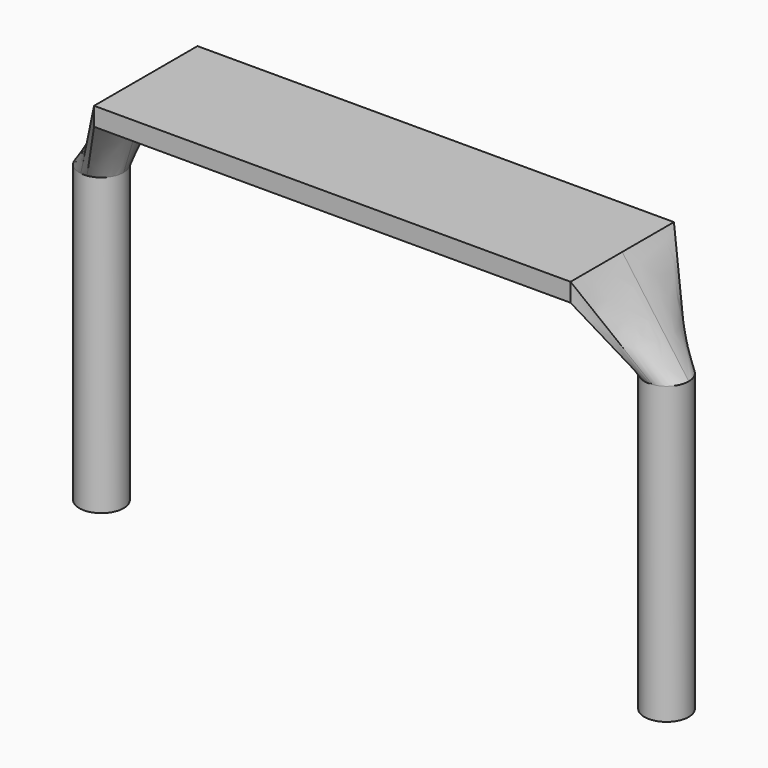
from build123d import *

# Parameters (mm, degrees)
SKETCH_R     = 0.6
PAD_DEPTH    = 8
SKETCH001_W  = 12.9
SKETCH001_H  = 3.5
PAD001_DEPTH = 0.5
SKETCH002_W  = 3.5
SKETCH002_H  = 0.5
SKETCH003_R  = 0.6
SKETCH004_R  = 0.6
SKETCH005_W  = 3.5
SKETCH005_H  = 0.5


with BuildPart() as pad:
    # Sketch → Pad (new body)
    with BuildSketch(Plane.XY.offset(-3)):
        Circle(SKETCH_R)
        with Locations((15.3, 0)):
            Circle(SKETCH_R)
    extrude(amount=PAD_DEPTH)


with BuildPart() as pad001:
    # Sketch001 → Pad001 (new body)
    with BuildSketch(Plane.XY.offset(7)):
        with Locations((7.65, 0)):
            Rectangle(SKETCH001_W, SKETCH001_H)
    extrude(amount=PAD001_DEPTH)


with BuildPart() as loft_body:
    # Sketch002 → Loft section 0
    with BuildSketch(Plane(origin=(14.1, 0, 7), x_dir=(0, 1, 0), z_dir=(1, 0, 0))):
        with Locations((0, 0.25)):
            Rectangle(SKETCH002_W, SKETCH002_H)
    # Sketch003 → Loft section 1
    with BuildSketch(Plane.XY.offset(5)):
        with Locations((15.3, 0)):
            Circle(SKETCH003_R)
    loft()


with BuildPart() as loft001:
    # Sketch004 → Loft001 section 0
    with BuildSketch(Plane.XY.offset(5)):
        Circle(SKETCH004_R)
    # Sketch005 → Loft001 section 1
    with BuildSketch(Plane(origin=(1.2, 0, 7), x_dir=(0, -1, 0), z_dir=(-1, 0, 0))):
        with Locations((0, 0.25)):
            Rectangle(SKETCH005_W, SKETCH005_H)
    loft()


solid = Compound([pad.part, pad001.part, loft_body.part, loft001.part])
